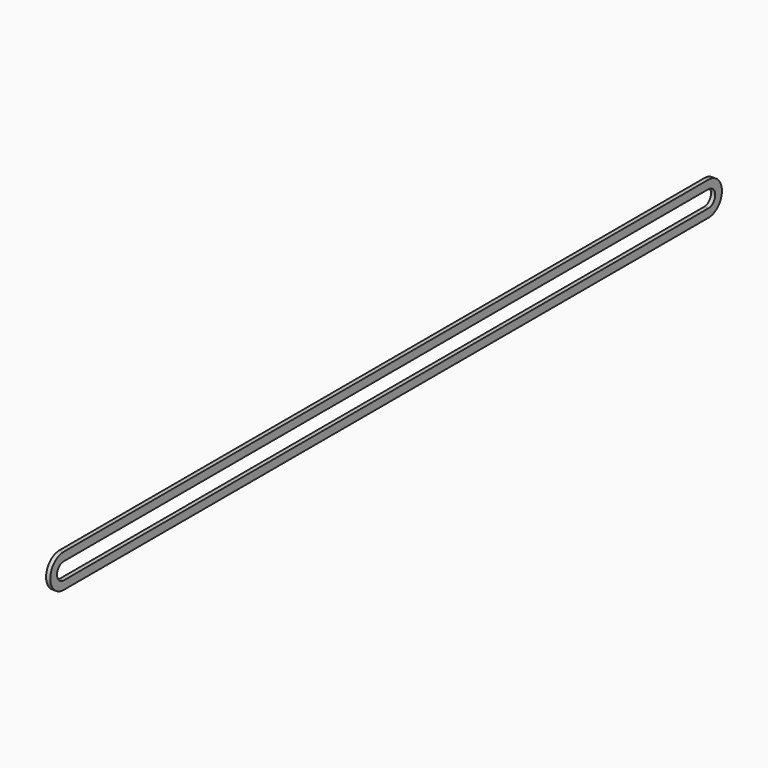
from build123d import *

# Parameters (mm, degrees)
F1_DEPTH = 3.175
F3_DEPTH = 209.804


with BuildPart() as f1:
    # F0 (on Right) → F1 (new body)
    with BuildSketch(Plane.YZ):
        with BuildLine():
            Line((304.8, 12.7), (0, 12.7))
            Line((0, 12.7), (-304.8, 12.7))
            ThreePointArc((-304.8, 12.7), (-317.5, 0), (-304.8, -12.7))
            Line((-304.8, -12.7), (0, -12.7))
            Line((0, -12.7), (304.8, -12.7))
            ThreePointArc((304.8, -12.7), (317.5, 0), (304.8, 12.7))
        make_face()
    extrude(amount=F1_DEPTH)

    # F2 (on face) → F3 (cut)
    with BuildSketch(Plane.YZ.offset(3.175)):
        with BuildLine():
            ThreePointArc((-304.8, 6.35), (-311.15, 0), (-304.8, -6.35))
            Line((-304.8, -6.35), (304.8, -6.35))
            ThreePointArc((304.8, -6.35), (311.15, 0), (304.8, 6.35))
            Line((304.8, 6.35), (-304.8, 6.35))
        make_face()
    extrude(amount=-F3_DEPTH, mode=Mode.SUBTRACT)


solid = f1.part
